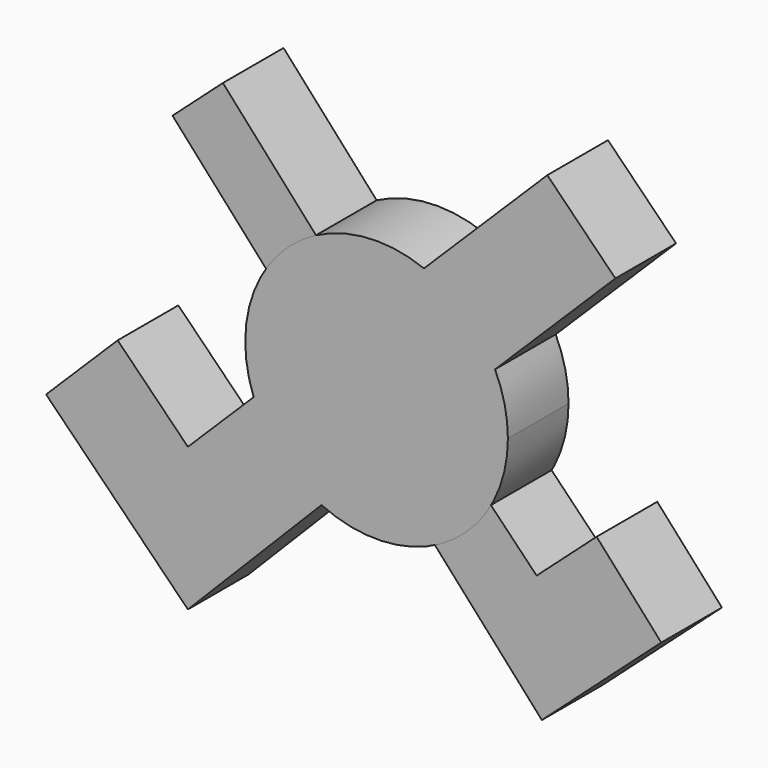
from build123d import *

# Parameters (mm, degrees)
F2_DEPTH = 6.35


with BuildPart() as f2:
    # F1 (on Front) → F2 (new body)
    with BuildSketch(Plane.XZ):
        Polygon((13.4068555883, -9.3299626637), (-4.8068021424, 9.4585465267), (-12.8698255867, 18.4519197792), (-17.0908423278, 14.6675603418), (13.8431015945, -19.8356884441), (23.8443027513, -10.86909525), (18.4282055772, -4.8280631489), align=None)
    extrude(amount=F2_DEPTH)


with BuildPart() as f2b:
    # F0 (on Front) → F2, piece 2 (new body)
    with BuildSketch(Plane.XZ):
        with BuildLine():
            Line((-15.801968473, -21.3205300156), (-4.6135591432, -9.9837605777))
            ThreePointArc((-4.6135591432, -9.9837605777), (-8.0552426423, -7.4882220328), (-10.2933787472, -3.8738555997))
            Line((-10.2933787472, -3.8738555997), (-15.801968473, -9.3307923181))
            Line((-15.801968473, -9.3307923181), (-21.6846778428, -3.3923997609))
            Line((-21.6846778428, -3.3923997609), (-27.6792806605, -9.3307923181))
            Line((-27.6792806605, -9.3307923181), (-15.801968473, -21.3205300156))
        make_face()
        with BuildLine():
            ThreePointArc((3.9706552641, 10.2564272539), (7.4730983496, 8.0692753266), (9.9221234412, 4.744667497))
            Line((9.9221234412, 4.744667497), (20.0025010854, 14.7305233404))
            Line((20.0025010854, 14.7305233404), (14.2990431264, 20.4879677704))
            Line((14.2990431264, 20.4879677704), (3.9706552641, 10.2564272539))
        make_face()
        with BuildLine():
            Line((-10.2933787472, -3.8738555997), (3.9706552641, 10.2564272539))
            ThreePointArc((3.9706552641, 10.2564272539), (-7.7401829075, 7.8134481376), (-10.2933787472, -3.8738555997))
        make_face()
        with BuildLine():
            ThreePointArc((-4.6135591432, -9.9837605777), (5.925350499, -9.2655612191), (10.9982, 0))
            ThreePointArc((10.9982, 0), (10.7258076915, 2.4325814692), (9.9221234412, 4.744667497))
            Line((9.9221234412, 4.744667497), (-4.6135591432, -9.9837605777))
        make_face()
        with BuildLine():
            Line((-4.6135591432, -9.9837605777), (9.9221234412, 4.744667497))
            ThreePointArc((9.9221234412, 4.744667497), (7.4730983496, 8.0692753266), (3.9706552641, 10.2564272539))
            Line((3.9706552641, 10.2564272539), (-10.2933787472, -3.8738555997))
            ThreePointArc((-10.2933787472, -3.8738555997), (-8.0552426423, -7.4882220328), (-4.6135591432, -9.9837605777))
        make_face()
    extrude(amount=F2_DEPTH)


solid = Compound([f2.part, f2b.part])
